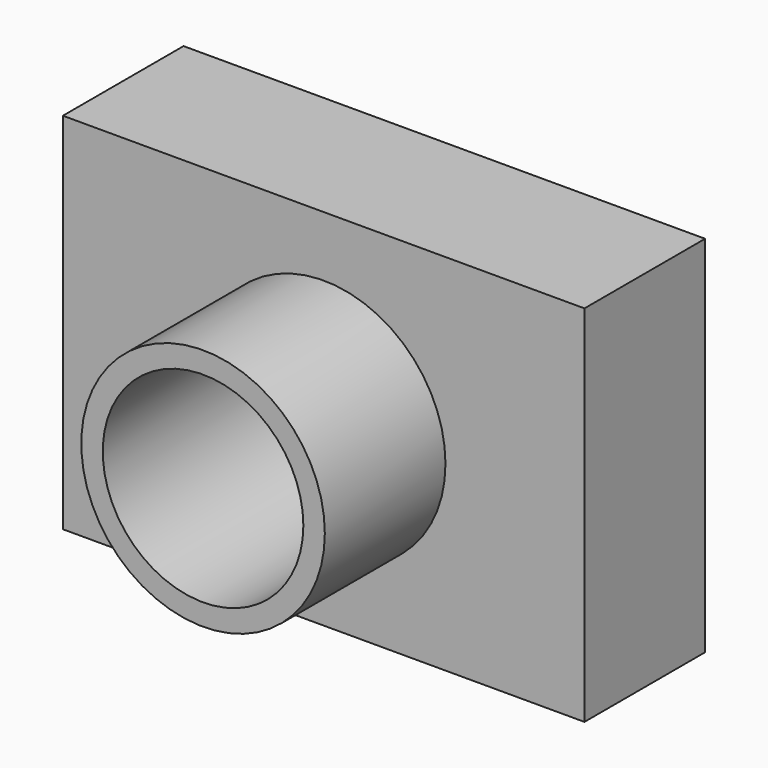
from build123d import *

# Parameters (mm, degrees)
F0_W     = 87.854118
F0_H     = 61.326738
F1_DEPTH = 25.4
F2_R     = 20.514038
F3_DEPTH = 25.4
F4_R     = 15.848833
F5_DEPTH = 50.8
F6_R     = 16.894941
F7_DEPTH = 76.2


with BuildPart() as f1:
    # F0 (on Front) → F1 (new body)
    with BuildSketch(Plane.XZ):
        Rectangle(F0_W, F0_H)
    extrude(amount=F1_DEPTH)

    # F2 (on face) → F3 (join)
    with BuildSketch(Plane.XZ.offset(25.4)):
        Circle(F2_R)
    extrude(amount=F3_DEPTH)

    # F4 (on Front) → F5 (cut)
    with BuildSketch(Plane.XZ):
        Circle(F4_R)
    extrude(amount=-F5_DEPTH, mode=Mode.SUBTRACT)

    # F6 (on face) → F7 (cut)
    with BuildSketch(Plane.XZ.offset(50.8)):
        Circle(F6_R)
    extrude(amount=-F7_DEPTH, mode=Mode.SUBTRACT)


solid = f1.part
